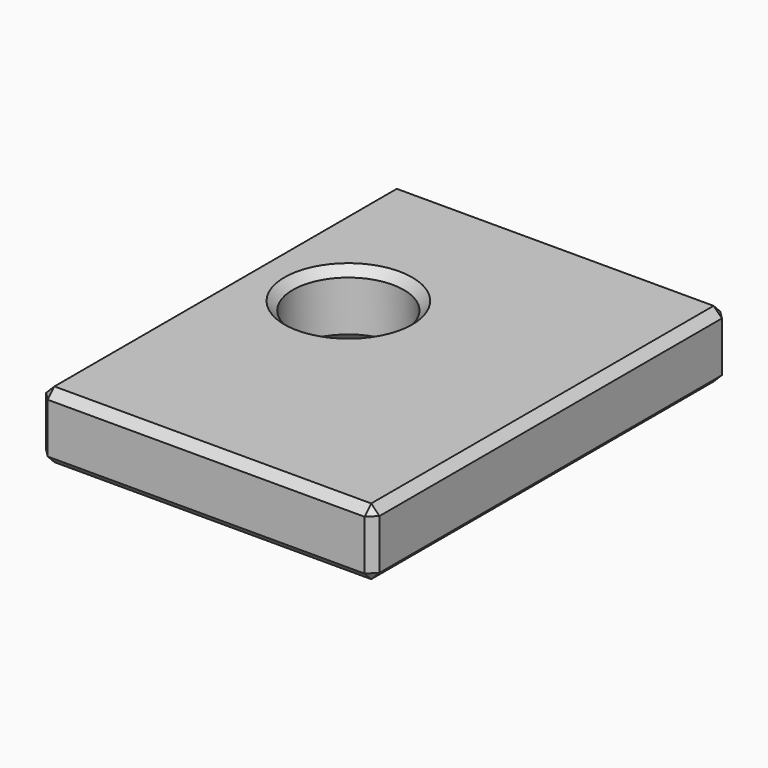
from build123d import *

# Parameters (mm, degrees)
F0_W     = 60
F0_H     = 80
F1_DEPTH = 12
F2_R     = 10
F3_DEPTH = 25
F4_SIZE  = 1.5


with BuildPart() as f1:
    # F0 (on Top) → F1 (new body)
    with BuildSketch(Plane.XY):
        with Locations((-1.378186, -7.605234)):
            Rectangle(F0_W, F0_H)
    extrude(amount=F1_DEPTH)

    # F2 (on face) → F3 (cut)
    with BuildSketch(Plane.XY.offset(12)):
        with Locations((-13.878186, 0)):
            Circle(F2_R)
    extrude(amount=-F3_DEPTH, mode=Mode.SUBTRACT)

    # F4
    f4_edges = [f1.edges().sort_by_distance(p)[0] for p in [
        (-23.878186, 0, 12),
        (-31.378186, -7.605234, 12),
        (-1.378186, 32.394766, 12),
        (-1.378186, 32.394766, 0),
        (28.621814, -7.605234, 0),
        (-31.378186, -7.605234, 0),
        (-1.378186, -47.605234, 0),
        (-23.878186, 0, 0),
        (28.621814, -7.605234, 12),
        (-1.378186, -47.605234, 12),
        (28.621814, -47.605234, 6),
        (28.621814, 32.394766, 6),
        (-31.378186, -47.605234, 6),
    ]]
    chamfer(f4_edges, length=F4_SIZE)


solid = f1.part
